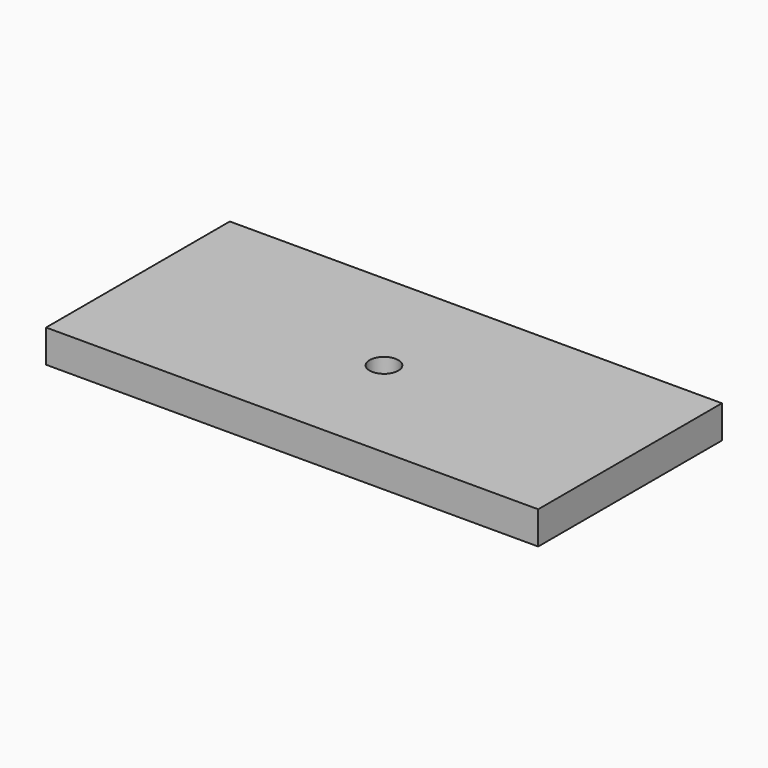
from build123d import *

# Parameters (mm, degrees)
CYLINDER009_R     = 1.75
CYLINDER009_DEPTH = 20
BOX006_W          = 60
BOX006_H          = 28
BOX006_DEPTH      = 4


with BuildPart() as cylinder009:
    # Cylinder009 → Cylinder009 (new body)
    with BuildSketch(Plane.XY.offset(105)):
        Circle(CYLINDER009_R)
    extrude(amount=CYLINDER009_DEPTH)


with BuildPart() as obj1:
    # Box006 → Box006 (new body)
    with BuildSketch(Plane(origin=(-30, -14, 110), x_dir=(1, 0, 0), z_dir=(0, 0, 1))):
        with Locations((30, 14)):
            Rectangle(BOX006_W, BOX006_H)
    extrude(amount=BOX006_DEPTH)

    # Cut010: cut Cylinder009
    add(cylinder009.part, mode=Mode.SUBTRACT)


solid = obj1.part
